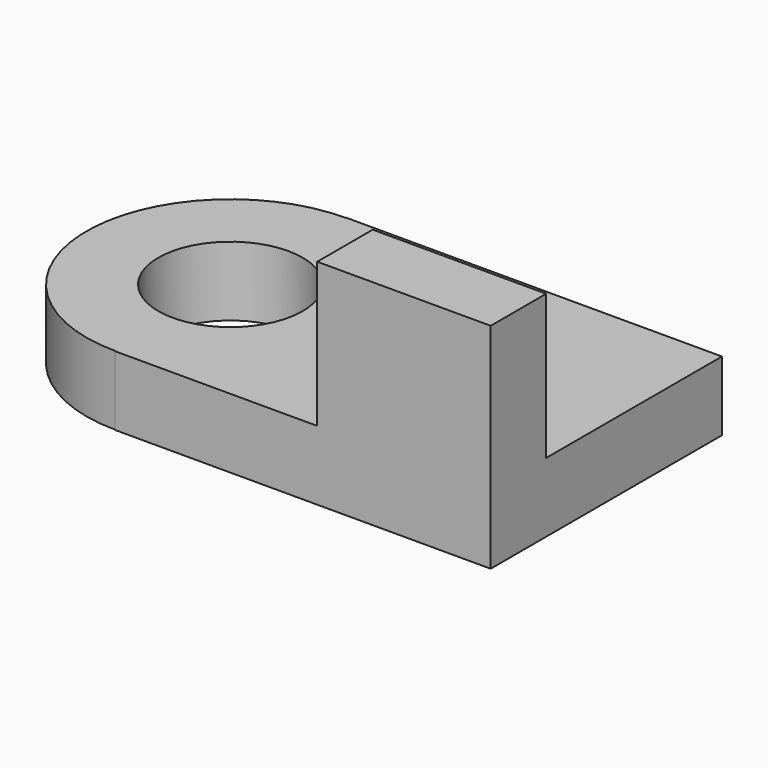
from build123d import *

# Parameters (mm, degrees)
F1_DEPTH = 304.8
F3_DEPTH = 2540
F4_W     = 762
F4_H     = 304.8
F5_DEPTH = 635


with BuildPart() as f1:
    # F0 (on Top) → F1 (new body)
    with BuildSketch(Plane.XY):
        with BuildLine():
            Line((-1651, 0), (0, 0))
            Line((0, 0), (0, 1270))
            Line((0, 1270), (-1651, 1270))
            Line((-1651, 1270), (-1651, 1268.0179134988))
            ThreePointArc((-1651, 1268.0179134988), (-1203.3887407525, 1082.6112592476), (-1017.9820865012, 635))
            ThreePointArc((-1017.9820865012, 635), (-1203.3887407525, 187.3887407524), (-1651, 1.9820865012))
            Line((-1651, 1.9820865012), (-1651, 0))
        make_face()
        with BuildLine():
            ThreePointArc((-1651, 1268.0179134988), (-2284.0179134988, 635), (-1651, 1.9820865012))
            Line((-1651, 1.9820865012), (-1651, 1268.0179134988))
        make_face()
        with BuildLine():
            Line((-1651, 1268.0179134988), (-1651, 1.9820865012))
            ThreePointArc((-1651, 1.9820865012), (-1203.3887407525, 187.3887407524), (-1017.9820865012, 635))
            ThreePointArc((-1017.9820865012, 635), (-1203.3887407525, 1082.6112592476), (-1651, 1268.0179134988))
        make_face()
    extrude(amount=F1_DEPTH)

    # F2 (on face) → F3 (cut)
    with BuildSketch(Plane.XY.offset(304.8)):
        with BuildLine():
            ThreePointArc((-1333.5, 635), (-1426.4935969733, 859.5064030267), (-1651, 952.5))
            Line((-1651, 952.5), (-1651, 317.5))
            ThreePointArc((-1651, 317.5), (-1426.4935969733, 410.4935969733), (-1333.5, 635))
        make_face()
        with BuildLine():
            Line((-1651, 317.5), (-1651, 952.5))
            ThreePointArc((-1651, 952.5), (-1968.5, 635), (-1651, 317.5))
        make_face()
    extrude(amount=-F3_DEPTH, mode=Mode.SUBTRACT)

    # F4 (on face) → F5 (join)
    with BuildSketch(Plane.XY.offset(304.8)):
        with Locations((-381, 152.4)):
            Rectangle(F4_W, F4_H)
    extrude(amount=F5_DEPTH)


solid = f1.part
